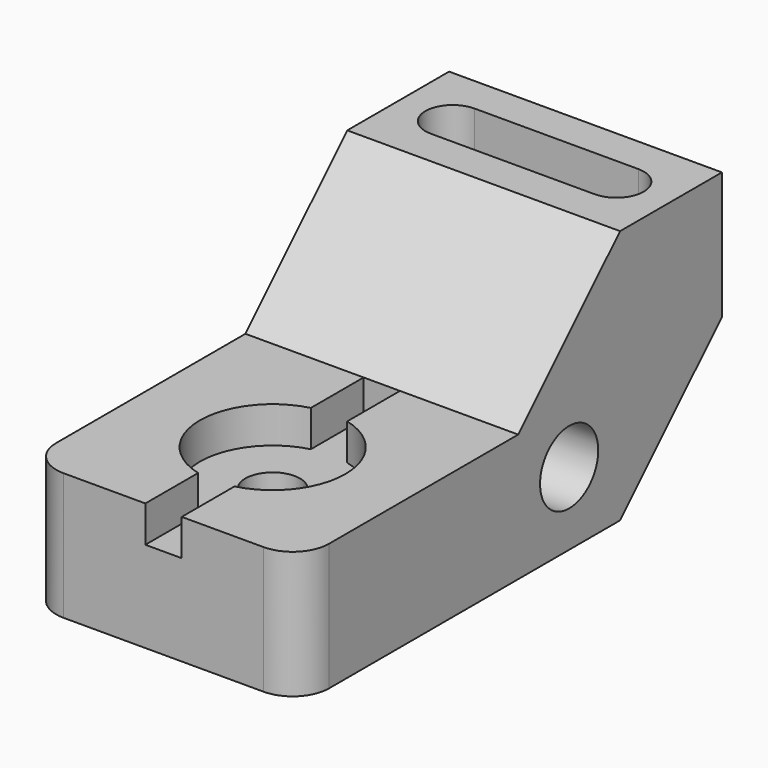
from build123d import *

# Parameters (mm, degrees)
F0_R           = 10.16
F1_DEPTH       = 38.1
F3_DEPTH       = 27.94
F5_D           = 15.24
F5_CBORE_D     = 40.64
F5_CBORE_DEPTH = 10.16
F6_W           = 10.16
F6_H           = 20.32
F7_DEPTH       = 76.2
F8_R           = 10.16


with BuildPart() as f1:
    # F0 (on Right) → F1 (new body, symmetric)
    with BuildSketch(Plane.YZ):
        Polygon((35.56, 35.56), (0, 0), (-76.2, 0), (-76.2, -35.56), (35.56, -35.56), (71.12, 0), (71.12, 35.56), align=None)
        with Locations((17.78, -15.24)):
            Circle(F0_R, mode=Mode.SUBTRACT)
    extrude(amount=F1_DEPTH, both=True)

    # F2 (on face) → F3 (cut)
    with BuildSketch(Plane.XY.offset(35.56)):
        with BuildLine():
            Line((22.86, 60.96), (-22.86, 60.96))
            ThreePointArc((-22.86, 60.96), (-30.48, 53.34), (-22.86, 45.72))
            Line((-22.86, 45.72), (22.86, 45.72))
            ThreePointArc((22.86, 45.72), (30.48, 53.34), (22.86, 60.96))
        make_face()
    extrude(amount=-F3_DEPTH, mode=Mode.SUBTRACT)

    # F5 (through all)
    with Locations(Plane.XY):
        with Locations((0, -38.1)):
            CounterBoreHole(F5_D / 2, F5_CBORE_D / 2, F5_CBORE_DEPTH)

    # F6 (on face) → F7 (cut)
    with BuildSketch(Plane.XZ.offset(76.2)):
        Rectangle(F6_W, F6_H)
    extrude(amount=-F7_DEPTH, mode=Mode.SUBTRACT)

    # F8
    f8_edges = [f1.edges().sort_by_distance(p)[0] for p in [
        (-38.1, -76.2, -17.78),
        (38.1, -76.2, -17.78),
    ]]
    fillet(f8_edges, radius=F8_R)


solid = f1.part
